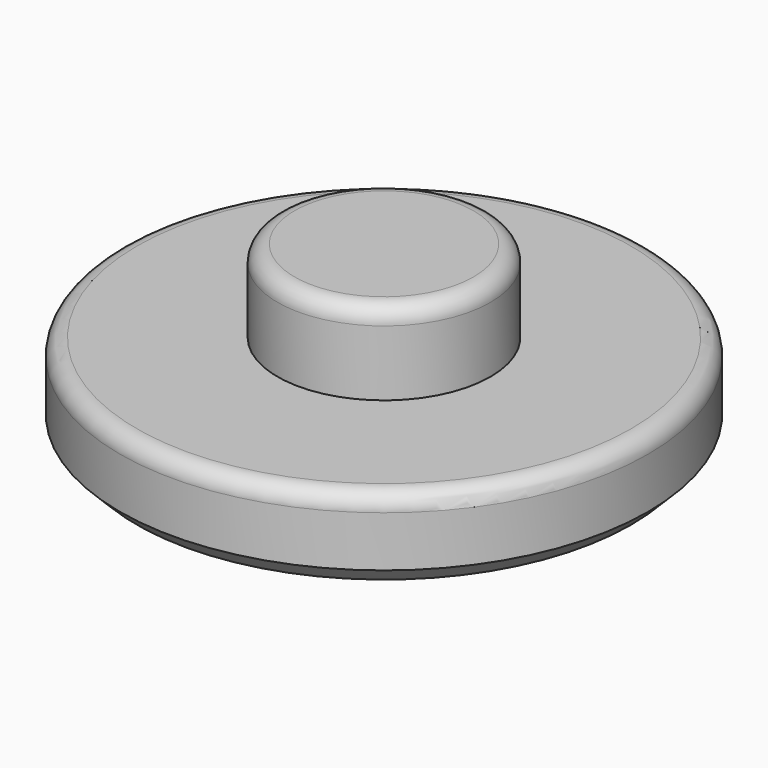
from build123d import *

# Parameters (mm, degrees)
F0_R     = 7.9375
F2_DEPTH = 2.54
F3_START = 2.54
F1_R     = 3.2004
F3_DEPTH = 2.4765
F4_R     = 0.508
F5_SIZE  = 0.508


with BuildPart() as f2:
    # F0 (on Top) → F2 (new body)
    with BuildSketch(Plane.XY):
        Circle(F0_R)
    extrude(amount=F2_DEPTH)

    # F1 (on Top) → F3 (join)
    with BuildSketch(Plane.XY.offset(F3_START)):
        Circle(F1_R)
    extrude(amount=F3_DEPTH)

    # F4
    f4_edges = [f2.edges().sort_by_distance(p)[0] for p in [
        (-3.2004, 0, 5.0165),
        (-7.9375, 0, 2.54),
    ]]
    fillet(f4_edges, radius=F4_R)

    # F5
    f5_edges = [f2.edges().sort_by_distance(p)[0] for p in [
        (-7.9375, 0, 0),
    ]]
    chamfer(f5_edges, length=F5_SIZE)


solid = f2.part
